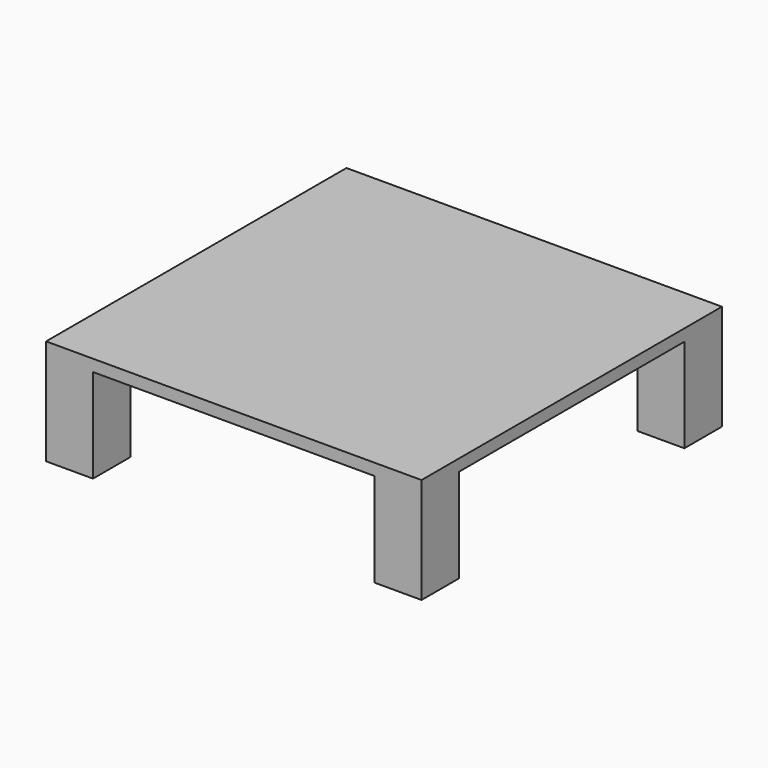
from build123d import *

# Parameters (mm, degrees)
F0_W     = 100
F0_H     = 100
F1_DEPTH = 3.125
F2_W     = 12.5
F2_H     = 12.5
F3_DEPTH = 25


with BuildPart() as f1:
    # F0 (on Top) → F1 (new body)
    with BuildSketch(Plane.XY):
        with Locations((-22.345341, 13.145286)):
            Rectangle(F0_W, F0_H)
    extrude(amount=F1_DEPTH)

    # F2 (on Top) → F3 (join)
    with BuildSketch(Plane.XY):
        with Locations((-66.095341, -30.604714)):
            Rectangle(F2_W, F2_H)
        with Locations((21.404659, -30.604714)):
            Rectangle(F2_W, F2_H)
        with Locations((-66.095341, 56.895286)):
            Rectangle(F2_W, F2_H)
        with Locations((21.404659, 56.895286)):
            Rectangle(F2_W, F2_H)
    extrude(amount=-F3_DEPTH)


solid = f1.part
